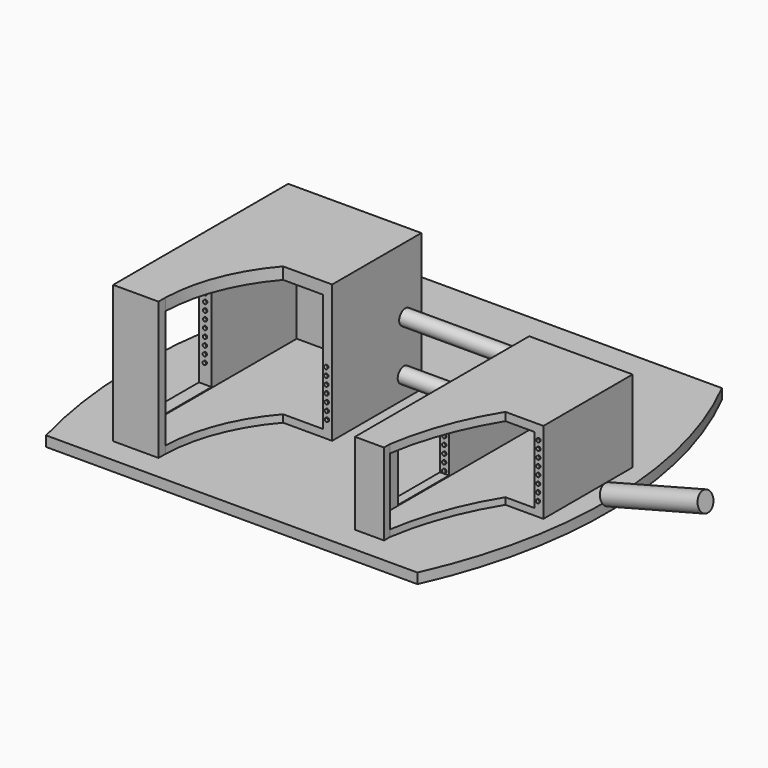
from build123d import *

# Parameters (mm, degrees)
F0_W          = 32.9995178618
F0_H          = 34.10564363
F0_W_2        = 27.6532256976
F0_H_2        = 29.3124195887
F1_DEPTH      = 50.8
F0_W_3        = 25.6253201514
F0_H_3        = 20.2790331095
F0_W_4        = 21.2008077651
F0_H_4        = 16.5919348365
F2_R          = 1.905
F3_DEPTH      = 19.172905013
F3_DEPTH_BACK = 7.5585483573
F5_DEPTH      = 101.6
F5_DEPTH_BACK = 25.4
F6_W          = 15.8545169979
F6_H          = 16.2232246948
F7_DEPTH      = 101.6
F8_W          = 15.8545169979
F8_H          = 29.1280648671
F9_DEPTH      = 76.2
F10_R         = 0.4445
F11_DEPTH     = 0.254
F12_R         = 0.4445
F13_DEPTH     = 0.254
F14_R         = 0.4445
F15_DEPTH     = 0.254
F16_R         = 0.4445
F17_DEPTH     = 0.254
F18_W         = 11.2409019681
F18_H         = 34.10564363
F19_DEPTH     = 2.159
F20_W         = 7.1994758941
F20_H         = 20.2790331095
F21_DEPTH     = 1.905
F25_W         = 32.9995178618
F25_H         = 34.10564363
F26_DEPTH     = 1.27
F27_W         = 25.6253201514
F27_H         = 20.2790331095
F28_DEPTH     = 1.27
F30_DEPTH     = 2.54


with BuildPart() as f1:
    # F0 (on Front) → F1 (new body)
    with BuildSketch(Plane.XZ):
        with Locations((-24.0583072882, 17.052821815)):
            Rectangle(F0_W, F0_H)
        with Locations((-23.5974187963, 16.4997582906)):
            Rectangle(F0_W_2, F0_H_2, mode=Mode.SUBTRACT)
    extrude(amount=F1_DEPTH)


with BuildPart() as f1b:
    # F0 (on Front) → F1, piece 2 (new body)
    with BuildSketch(Plane.XZ):
        with Locations((31.9855650887, 10.1395165548)):
            Rectangle(F0_W_3, F0_H_3)
        with Locations((31.9855650887, 9.9551610765)):
            Rectangle(F0_W_4, F0_H_4, mode=Mode.SUBTRACT)
    extrude(amount=F1_DEPTH)


with BuildPart() as f3:
    # F2 (on Right) → F3 (new body, two sides)
    with BuildSketch(Plane.YZ) as f3_sk:
        with Locations((-3.7006346975, 17.7940279245)):
            Circle(F2_R)
    extrude(amount=F3_DEPTH)
    extrude(f3_sk.sketch, amount=-F3_DEPTH_BACK)


with BuildPart() as f3b:
    # F2 (on Right) → F3, piece 2 (new body, two sides)
    with BuildSketch(Plane.YZ) as f3_2_sk:
        with Locations((-4.1465931572, 5.3570820019)):
            Circle(F2_R)
    extrude(amount=F3_DEPTH)
    extrude(f3_2_sk.sketch, amount=-F3_DEPTH_BACK)


with BuildPart() as f5_tool:
    # F4 (on Top) → F5 (new body, two sides)
    with BuildSketch(Plane.XY) as f5_sk:
        with BuildLine():
            Line((51.4350011945, -26.362741366), (35.3737850889, -26.362741366))
            ThreePointArc((35.3737850889, -26.362741366), (27.8021113419, -43.989275966), (25.6253238767, -63.0493536592))
            Line((25.6253238767, -63.0493536592), (51.4350011945, -63.0493536592))
            Line((51.4350011945, -63.0493536592), (51.4350011945, -26.362741366))
        make_face()
        with BuildLine():
            Line((-2.027902985, -26.362741366), (-19.7259671986, -26.362741366))
            ThreePointArc((-19.7259671986, -26.362741366), (-28.4710621219, -43.8675040971), (-27.6532266289, -63.4180679917))
            Line((-27.6532266289, -63.4180679917), (-2.027902985, -63.4180679917))
            Line((-2.027902985, -63.4180679917), (-2.027902985, -26.362741366))
        make_face()
    extrude(amount=F5_DEPTH)
    extrude(f5_sk.sketch, amount=-F5_DEPTH_BACK)


with BuildPart() as f1_1:
    add(f1.part)

    # F5: cut by f5_tool
    add(f5_tool.part, mode=Mode.SUBTRACT)

    # F8 (on Right) → F9 (cut)
    with BuildSketch(Plane.YZ):
        with Locations((-34.289999865, 16.5919356514)):
            Rectangle(F8_W, F8_H)
    extrude(amount=-F9_DEPTH, mode=Mode.SUBTRACT)

    # F18 (on face) → F19 (join)
    with BuildSketch(Plane.XZ.offset(50.8)):
        with Locations((-34.9376152351, 17.052821815)):
            Rectangle(F18_W, F18_H)
    extrude(amount=F19_DEPTH)

    # F25 (on face) → F26 (join)
    with BuildSketch(Plane(origin=(0, 0, 0), x_dir=(-1, 0, 0), z_dir=(0, 1, 0))):
        with Locations((24.0583072882, 17.052821815)):
            Rectangle(F25_W, F25_H)
    extrude(amount=F26_DEPTH)


with BuildPart() as f1b_1:
    add(f1b.part)

    # F5: cut by f5_tool
    add(f5_tool.part, mode=Mode.SUBTRACT)

    # F6 (on Right) → F7 (cut)
    with BuildSketch(Plane.YZ):
        with Locations((-34.289999865, 9.9551608437)):
            Rectangle(F6_W, F6_H)
    extrude(amount=F7_DEPTH, mode=Mode.SUBTRACT)

    # F20 (on face) → F21 (join)
    with BuildSketch(Plane.XZ.offset(50.8)):
        with Locations((22.77264296, 10.1395165548)):
            Rectangle(F20_W, F20_H)
    extrude(amount=F21_DEPTH)

    # F27 (on face) → F28 (join)
    with BuildSketch(Plane(origin=(0, 0, 0), x_dir=(-1, 0, 0), z_dir=(0, 1, 0))):
        with Locations((-31.9855650887, 10.1395165548)):
            Rectangle(F27_W, F27_H)
    extrude(amount=F28_DEPTH)


with BuildPart() as f11:
    # F10 (on face) → F11 (new body)
    with BuildSketch(Plane.XZ.offset(26.362741366)):
        with Locations((-8.9427465631, 15.7092289209)):
            Circle(F10_R)
    extrude(amount=F11_DEPTH)


with BuildPart() as f11b:
    # F10 (on face) → F11, piece 2 (new body)
    with BuildSketch(Plane.XZ.offset(26.362741366)):
        with Locations((-8.9084738865, 13.8045372441)):
            Circle(F10_R)
    extrude(amount=F11_DEPTH)


with BuildPart() as f11c:
    # F10 (on face) → F11, piece 3 (new body)
    with BuildSketch(Plane.XZ.offset(26.362741366)):
        with Locations((-8.87420121, 11.8998455673)):
            Circle(F10_R)
    extrude(amount=F11_DEPTH)


with BuildPart() as f11d:
    # F10 (on face) → F11, piece 4 (new body)
    with BuildSketch(Plane.XZ.offset(26.362741366)):
        with Locations((-8.8399285334, 9.9951538906)):
            Circle(F10_R)
    extrude(amount=F11_DEPTH)


with BuildPart() as f11e:
    # F10 (on face) → F11, piece 5 (new body)
    with BuildSketch(Plane.XZ.offset(26.362741366)):
        with Locations((-8.8056558568, 8.0904622138)):
            Circle(F10_R)
    extrude(amount=F11_DEPTH)


with BuildPart() as f11f:
    # F10 (on face) → F11, piece 6 (new body)
    with BuildSketch(Plane.XZ.offset(26.362741366)):
        with Locations((-8.7713831802, 6.185770537)):
            Circle(F10_R)
    extrude(amount=F11_DEPTH)


with BuildPart() as f11g:
    # F10 (on face) → F11, piece 7 (new body)
    with BuildSketch(Plane.XZ.offset(26.362741366)):
        with Locations((-8.7371105036, 4.2810788602)):
            Circle(F10_R)
    extrude(amount=F11_DEPTH)


with BuildPart() as f13:
    # F12 (on face) → F13 (new body)
    with BuildSketch(Plane.XZ.offset(26.362741366)):
        with Locations((-38.8705460239, 25.882279263)):
            Circle(F12_R)
    extrude(amount=F13_DEPTH)


with BuildPart() as f13b:
    # F12 (on face) → F13, piece 2 (new body)
    with BuildSketch(Plane.XZ.offset(26.362741366)):
        with Locations((-38.8854295015, 23.9773374051)):
            Circle(F12_R)
    extrude(amount=F13_DEPTH)


with BuildPart() as f13c:
    # F12 (on face) → F13, piece 3 (new body)
    with BuildSketch(Plane.XZ.offset(26.362741366)):
        with Locations((-38.9003129792, 22.0723955472)):
            Circle(F12_R)
    extrude(amount=F13_DEPTH)


with BuildPart() as f13d:
    # F12 (on face) → F13, piece 4 (new body)
    with BuildSketch(Plane.XZ.offset(26.362741366)):
        with Locations((-38.9151964569, 20.1674536892)):
            Circle(F12_R)
    extrude(amount=F13_DEPTH)


with BuildPart() as f13e:
    # F12 (on face) → F13, piece 5 (new body)
    with BuildSketch(Plane.XZ.offset(26.362741366)):
        with Locations((-38.9300799345, 18.2625118313)):
            Circle(F12_R)
    extrude(amount=F13_DEPTH)


with BuildPart() as f13f:
    # F12 (on face) → F13, piece 6 (new body)
    with BuildSketch(Plane.XZ.offset(26.362741366)):
        with Locations((-38.9449634122, 16.3575699734)):
            Circle(F12_R)
    extrude(amount=F13_DEPTH)


with BuildPart() as f13g:
    # F12 (on face) → F13, piece 7 (new body)
    with BuildSketch(Plane.XZ.offset(26.362741366)):
        with Locations((-38.9598468898, 14.4526281154)):
            Circle(F12_R)
    extrude(amount=F13_DEPTH)


with BuildPart() as f13h:
    # F12 (on face) → F13, piece 8 (new body)
    with BuildSketch(Plane.XZ.offset(26.362741366)):
        with Locations((-38.9747303675, 12.5476862575)):
            Circle(F12_R)
    extrude(amount=F13_DEPTH)


with BuildPart() as f13i:
    # F12 (on face) → F13, piece 9 (new body)
    with BuildSketch(Plane.XZ.offset(26.362741366)):
        with Locations((-38.9896138451, 10.6427443996)):
            Circle(F12_R)
    extrude(amount=F13_DEPTH)


with BuildPart() as f13j:
    # F12 (on face) → F13, piece 10 (new body)
    with BuildSketch(Plane.XZ.offset(26.362741366)):
        with Locations((-39.0044973228, 8.7378025416)):
            Circle(F12_R)
    extrude(amount=F13_DEPTH)


with BuildPart() as f13k:
    # F12 (on face) → F13, piece 11 (new body)
    with BuildSketch(Plane.XZ.offset(26.362741366)):
        with Locations((-39.0193808005, 6.8328606837)):
            Circle(F12_R)
    extrude(amount=F13_DEPTH)


with BuildPart() as f15:
    # F14 (on face) → F15 (new body)
    with BuildSketch(Plane.XZ.offset(26.362741366)):
        with Locations((20.3337986022, 12.0470710099)):
            Circle(F14_R)
    extrude(amount=F15_DEPTH)


with BuildPart() as f15b:
    # F14 (on face) → F15, piece 2 (new body)
    with BuildSketch(Plane.XZ.offset(26.362741366)):
        with Locations((20.3303022122, 10.1420742185)):
            Circle(F14_R)
    extrude(amount=F15_DEPTH)


with BuildPart() as f15c:
    # F14 (on face) → F15, piece 3 (new body)
    with BuildSketch(Plane.XZ.offset(26.362741366)):
        with Locations((20.3268058222, 8.2370774271)):
            Circle(F14_R)
    extrude(amount=F15_DEPTH)


with BuildPart() as f15d:
    # F14 (on face) → F15, piece 4 (new body)
    with BuildSketch(Plane.XZ.offset(26.362741366)):
        with Locations((20.3233094322, 6.3320806357)):
            Circle(F14_R)
    extrude(amount=F15_DEPTH)


with BuildPart() as f15e:
    # F14 (on face) → F15, piece 5 (new body)
    with BuildSketch(Plane.XZ.offset(26.362741366)):
        with Locations((20.3198130422, 4.4270838443)):
            Circle(F14_R)
    extrude(amount=F15_DEPTH)


with BuildPart() as f15f:
    # F14 (on face) → F15, piece 6 (new body)
    with BuildSketch(Plane.XZ.offset(26.362741366)):
        with Locations((20.3163166522, 2.5220870529)):
            Circle(F14_R)
    extrude(amount=F15_DEPTH)


with BuildPart() as f17:
    # F16 (on face) → F17 (new body)
    with BuildSketch(Plane.XZ.offset(26.362741366)):
        with Locations((43.679498136, 16.8631244451)):
            Circle(F16_R)
    extrude(amount=F17_DEPTH)


with BuildPart() as f17b:
    # F16 (on face) → F17, piece 2 (new body)
    with BuildSketch(Plane.XZ.offset(26.362741366)):
        with Locations((43.6623497552, 14.9582016296)):
            Circle(F16_R)
    extrude(amount=F17_DEPTH)


with BuildPart() as f17c:
    # F16 (on face) → F17, piece 3 (new body)
    with BuildSketch(Plane.XZ.offset(26.362741366)):
        with Locations((43.6452013743, 13.0532788141)):
            Circle(F16_R)
    extrude(amount=F17_DEPTH)


with BuildPart() as f17d:
    # F16 (on face) → F17, piece 4 (new body)
    with BuildSketch(Plane.XZ.offset(26.362741366)):
        with Locations((43.6280529935, 11.1483559986)):
            Circle(F16_R)
    extrude(amount=F17_DEPTH)


with BuildPart() as f17e:
    # F16 (on face) → F17, piece 5 (new body)
    with BuildSketch(Plane.XZ.offset(26.362741366)):
        with Locations((43.6109046126, 9.2434331831)):
            Circle(F16_R)
    extrude(amount=F17_DEPTH)


with BuildPart() as f17f:
    # F16 (on face) → F17, piece 6 (new body)
    with BuildSketch(Plane.XZ.offset(26.362741366)):
        with Locations((43.5937562318, 7.3385103676)):
            Circle(F16_R)
    extrude(amount=F17_DEPTH)


with BuildPart() as f17g:
    # F16 (on face) → F17, piece 7 (new body)
    with BuildSketch(Plane.XZ.offset(26.362741366)):
        with Locations((43.5766078509, 5.433587552)):
            Circle(F16_R)
    extrude(amount=F17_DEPTH)


with BuildPart() as f17h:
    # F16 (on face) → F17, piece 8 (new body)
    with BuildSketch(Plane.XZ.offset(26.362741366)):
        with Locations((43.5594594701, 3.5286647365)):
            Circle(F16_R)
    extrude(amount=F17_DEPTH)


with BuildPart() as f24:
    # F23 (on offset) → F24 (revolve)
    with BuildSketch(Plane.XZ.offset(33.982741366)):
        Polygon((66.2719224705, 17.9156268467), (66.9657516559, 15.6606714319), (91.0652230978, 21.9319109817), (90.471643093, 24.2129535507), align=None)
    revolve(axis=Axis((79.0154873769, -33.982741366, 18.7962912068), (0.9677699, 0, 0.2518360988)))


with BuildPart() as f30:
    # F29 (on face) → F30 (new body)
    with BuildSketch(Plane(origin=(0, 0, 0), x_dir=(1, 0, 0), z_dir=(0, 0, -1))):
        with BuildLine():
            ThreePointArc((37.5409163535, -38.0092859268), (49.7688647557, 10.3133144659), (39.8163348436, 59.1553412378))
            Line((39.8163348436, 59.1553412378), (-52.2173220198, 59.1553412378))
            ThreePointArc((-52.2173220198, 59.1553412378), (-55.8475971067, 9.4378879241), (-40.5580662191, -38.0092859268))
            Line((-40.5580662191, -38.0092859268), (37.5409163535, -38.0092859268))
        make_face()
    extrude(amount=F30_DEPTH)


solid = Compound([f3.part, f3b.part, f1_1.part, f1b_1.part, f11.part, f11b.part, f11c.part, f11d.part, f11e.part, f11f.part, f11g.part, f13.part, f13b.part, f13c.part, f13d.part, f13e.part, f13f.part, f13g.part, f13h.part, f13i.part, f13j.part, f13k.part, f15.part, f15b.part, f15c.part, f15d.part, f15e.part, f15f.part, f17.part, f17b.part, f17c.part, f17d.part, f17e.part, f17f.part, f17g.part, f17h.part, f24.part, f30.part])
